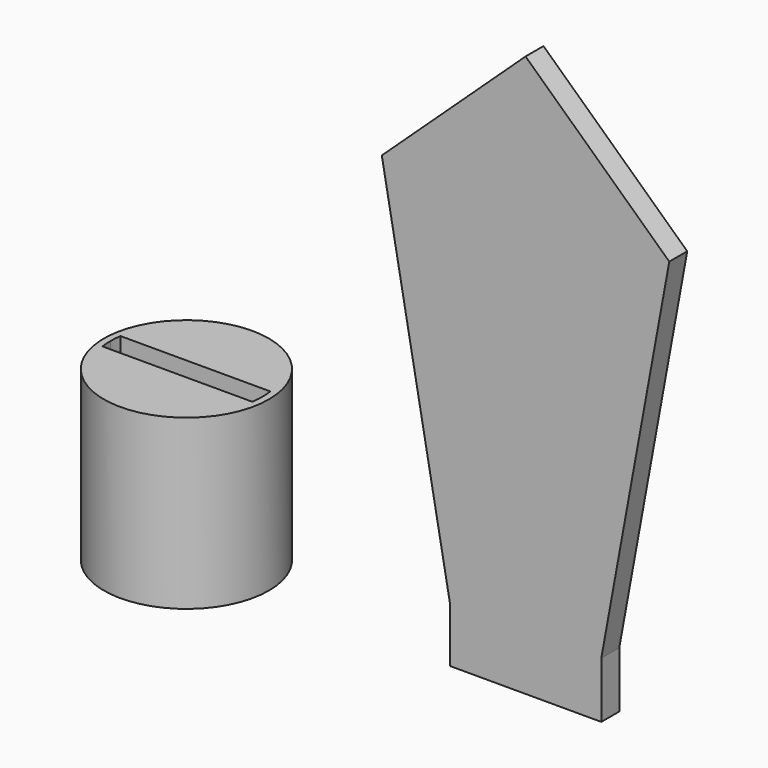
from build123d import *

# Parameters (mm, degrees)
F0_R          = 14.7
F1_DEPTH      = 30
F2_START      = 20
F2_DEPTH      = 10
F3_W          = 13.5
F3_H          = 10
F4_DEPTH      = 2
F4_DEPTH_BACK = 2


with BuildPart() as f1:
    # F0 (on Top) → F1 (new body)
    with BuildSketch(Plane.XY):
        Circle(F0_R)
        with BuildLine():
            ThreePointArc((13.3510299228, 2), (13.4627059679, 1.0027701736), (13.5, 0))
            ThreePointArc((13.5, 0), (13.4627059679, -1.0027701736), (13.3510299228, -2))
            ThreePointArc((13.3510299228, -2), (0, -13.5), (-13.3510299228, -2))
            ThreePointArc((-13.3510299228, -2), (-13.4627059679, -1.0027701736), (-13.5, 0))
            ThreePointArc((-13.5, 0), (-13.4627059679, 1.0027701736), (-13.3510299228, 2))
            ThreePointArc((-13.3510299228, 2), (0, 13.5), (13.3510299228, 2))
        make_face(mode=Mode.SUBTRACT)
    extrude(amount=F1_DEPTH)

    # F0 (on Top) → F2 (join)
    with BuildSketch(Plane.XY.offset(F2_START)):
        with BuildLine():
            Line((-13.3510299228, 2), (13.3510299228, 2))
            ThreePointArc((13.3510299228, 2), (0, 13.5), (-13.3510299228, 2))
        make_face()
        with BuildLine():
            ThreePointArc((-13.3510299228, -2), (0, -13.5), (13.3510299228, -2))
            Line((13.3510299228, -2), (-13.3510299228, -2))
        make_face()
    extrude(amount=F2_DEPTH)


with BuildPart() as f4:
    # F3 (on Front) → F4 (new body, two sides)
    with BuildSketch(Plane.XZ) as f4_sk:
        Polygon((62.0305935144, 10), (75.5305935144, 10), (87.6443634541, 76.1476460391), (62.0305935144, 100), align=None)
        Polygon((48.5305935144, 10), (62.0305935144, 10), (62.0305935144, 100), (36.4168235748, 76.1476460391), align=None)
        with Locations((55.2805935144, 5)):
            Rectangle(F3_W, F3_H)
        with Locations((68.7805935144, 5)):
            Rectangle(F3_W, F3_H)
    extrude(amount=F4_DEPTH)
    extrude(f4_sk.sketch, amount=-F4_DEPTH_BACK)


solid = Compound([f1.part, f4.part])
